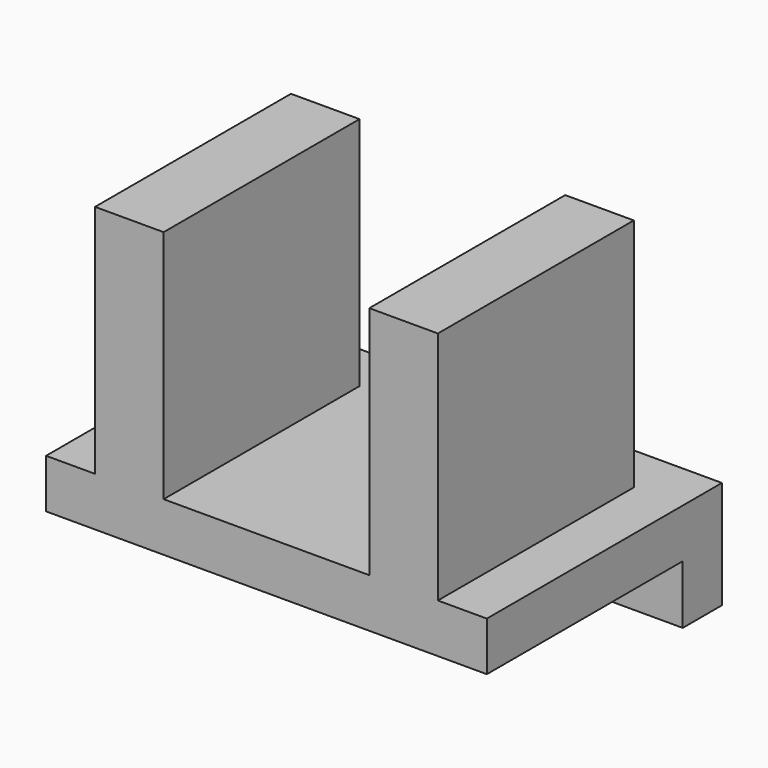
from build123d import *

# Parameters (mm, degrees)
F1_DEPTH = 60
F2_W     = 90
F2_H     = 10
F3_DEPTH = 12
F4_W     = 14
F4_H     = 10
F5_DEPTH = 48
F6_W     = 14
F6_H     = 10
F7_DEPTH = 48


with BuildPart() as f1:
    # F0 (on Front) → F1 (new body)
    with BuildSketch(Plane.XZ):
        Polygon((-90, 0), (0, 0), (0, 10), (-10, 10), (-10, 58), (-24, 58), (-24, 10), (-66, 10), (-66, 58), (-80, 58), (-80, 10), (-90, 10), align=None)
    extrude(amount=F1_DEPTH)

    # F2 (on face) → F3 (join)
    with BuildSketch(Plane(origin=(0, 0, 0), x_dir=(1, 0, 0), z_dir=(0, 0, -1))):
        with Locations((-45, 5)):
            Rectangle(F2_W, F2_H)
    extrude(amount=F3_DEPTH)

    # F4 (on face) → F5 (cut)
    with BuildSketch(Plane.XY.offset(58)):
        with Locations((-17, -5)):
            Rectangle(F4_W, F4_H)
    extrude(amount=-F5_DEPTH, mode=Mode.SUBTRACT)

    # F6 (on face) → F7 (cut)
    with BuildSketch(Plane.XY.offset(58)):
        with Locations((-73, -5)):
            Rectangle(F6_W, F6_H)
    extrude(amount=-F7_DEPTH, mode=Mode.SUBTRACT)


solid = f1.part
